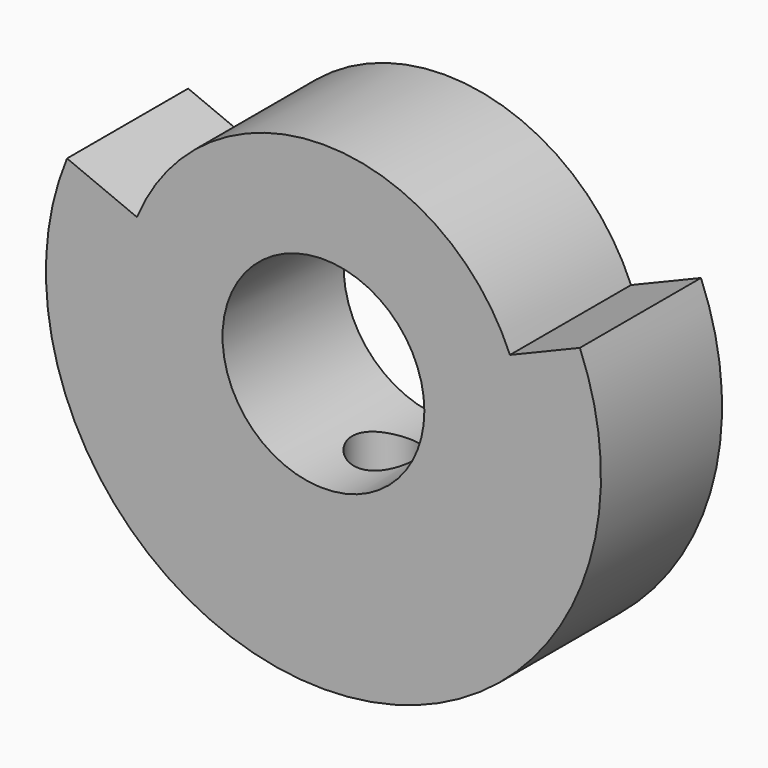
from build123d import *

# Parameters (mm, degrees)
F0_R     = 3.175
F1_DEPTH = 2.38125
F3_D     = 1.9939
F3_DEPTH = 8.73225


with BuildPart() as f1:
    # F0 (on Front) → F1 (new body, symmetric)
    with BuildSketch(Plane.XZ):
        with BuildLine():
            Line((-5.8666350314, 2.4300397955), (-8.0666231682, 3.3413047188))
            ThreePointArc((-8.0666231682, 3.3413047188), (0, -8.73125), (8.0666231682, 3.3413047188))
            Line((8.0666231682, 3.3413047188), (5.8666350314, 2.4300397955))
            ThreePointArc((5.8666350314, 2.4300397955), (0, 6.35), (-5.8666350314, 2.4300397955))
        make_face()
        Circle(F0_R, mode=Mode.SUBTRACT)
    extrude(amount=F1_DEPTH, both=True)

    # F3 (through all, one way)
    with BuildSketch(Plane.XY):
        with Locations((0, 0)):
            Circle(F3_D / 2)
    extrude(amount=-F3_DEPTH, mode=Mode.SUBTRACT)


solid = f1.part
